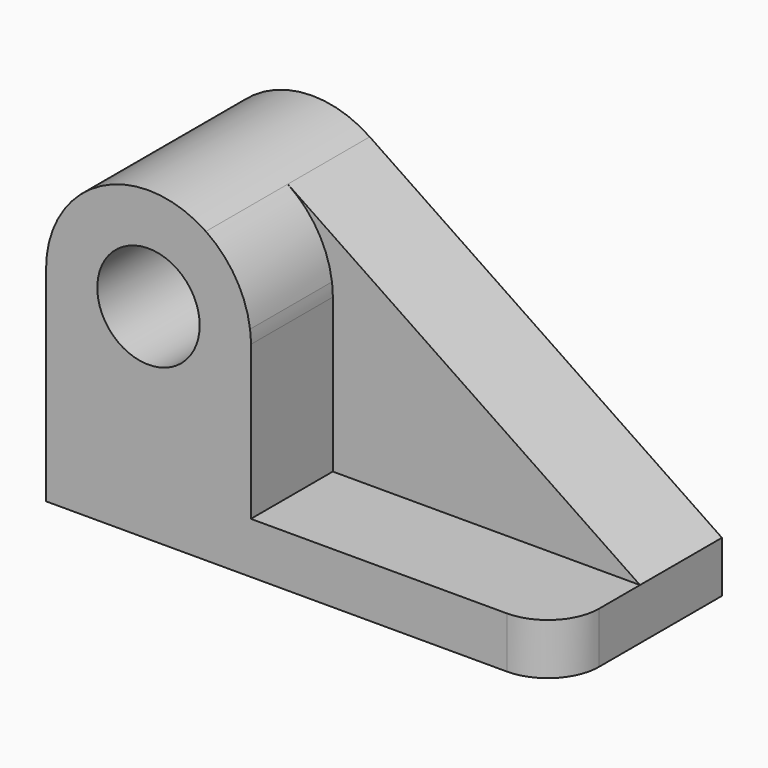
from build123d import *

# Parameters (mm, degrees)
F0_R     = 12.7
F1_DEPTH = 25.4
F2_R     = 12.7
F3_DEPTH = 25.4
F4_R     = 12.7


with BuildPart() as f1:
    # F0 (on Front) → F1 (new body)
    with BuildSketch(Plane.XZ):
        with BuildLine():
            Line((60.995375, 0), (-26.366752, 59.134328))
            ThreePointArc((-26.366752, 59.134328), (-52.510884, 60.536599), (-66.004625, 38.1))
            Line((-66.004625, 38.1), (-66.004625, -12.7))
            Line((-66.004625, -12.7), (60.995375, -12.7))
            Line((60.995375, -12.7), (60.995375, 0))
        make_face()
        with Locations((-40.604625, 38.1)):
            Circle(F0_R, mode=Mode.SUBTRACT)
    extrude(amount=F1_DEPTH)

    # F2 (on face) → F3 (join)
    with BuildSketch(Plane.XZ.offset(25.4)):
        with BuildLine():
            Line((-15.204625, 0), (-15.204625, 38.1))
            ThreePointArc((-15.204625, 38.1), (-15.256981, 39.730019), (-15.413835, 41.353319))
            ThreePointArc((-15.413835, 41.353319), (-18.978346, 51.421563), (-26.366752, 59.134328))
            ThreePointArc((-26.366752, 59.134328), (-52.510884, 60.536599), (-66.004625, 38.1))
            Line((-66.004625, 38.1), (-66.004625, 0))
            Line((-66.004625, 0), (-66.004625, -12.7))
            Line((-66.004625, -12.7), (60.995375, -12.7))
            Line((60.995375, -12.7), (60.995375, 0))
            Line((60.995375, 0), (-15.204625, 0))
        make_face()
        with Locations((-40.604625, 38.1)):
            Circle(F2_R, mode=Mode.SUBTRACT)
    extrude(amount=F3_DEPTH)

    # F4
    f4_edges = [f1.edges().sort_by_distance(p)[0] for p in [
        (60.995375, -50.8, -6.35),
    ]]
    fillet(f4_edges, radius=F4_R)


solid = f1.part
